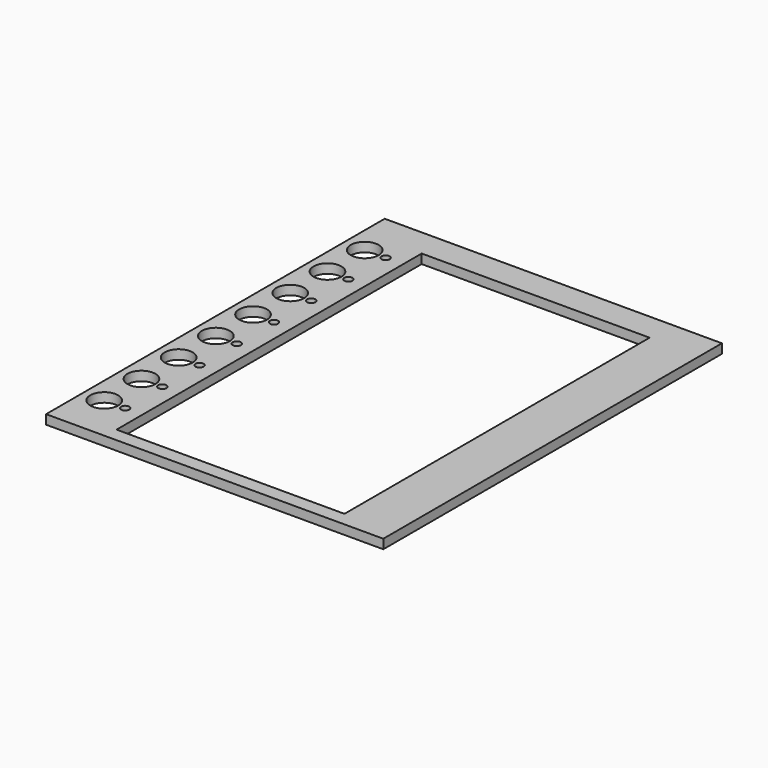
from build123d import *

# Parameters (mm, degrees)
BOX_W                                = 145
BOX_H                                = 182
BOX_DEPTH                            = 4
BOX001_W                             = 98
BOX001_H                             = 164
BOX001_DEPTH                         = 5
CYLINDER_R                           = 6
CYLINDER_DEPTH                       = 12
CYLINDER001_R                        = 1.75
CYLINDER001_DEPTH                    = 12
LINEARPATTERN_COUNT                  = 8
LINEARPATTERN_PITCH                  = 20
CYLINDER003_R                        = 1
CYLINDER003_DEPTH                    = 6
CYLINDER003_LINEARPATTERN004_2_R     = 1
CYLINDER003_LINEARPATTERN004_2_DEPTH = 6
LINEARPATTERN005_COUNT               = 2
LINEARPATTERN005_PITCH               = 170


with BuildPart() as part:
    # Box → Box (join)
    with BuildSketch(Plane.XY):
        with Locations((72.5, 91)):
            Rectangle(BOX_W, BOX_H)
    extrude(amount=BOX_DEPTH)

    # Box001 → Box001 (cut)
    with BuildSketch(Plane(origin=(25.5, 6, -1), x_dir=(1, 0, 0), z_dir=(0, 0, 1))):
        with Locations((49, 82)):
            Rectangle(BOX001_W, BOX001_H)
    extrude(amount=BOX001_DEPTH, mode=Mode.SUBTRACT)

    # Cylinder → Cylinder (cut)
    with BuildSketch(Plane(origin=(9, 20, -7), x_dir=(1, 0, 0), z_dir=(0, 0, 1))):
        Circle(CYLINDER_R)
    cylinder = extrude(amount=CYLINDER_DEPTH, mode=Mode.SUBTRACT)

    # Cylinder001 → Cylinder001 (cut)
    with BuildSketch(Plane(origin=(18, 20, -7), x_dir=(1, 0, 0), z_dir=(0, 0, 1))):
        Circle(CYLINDER001_R)
    cylinder001 = extrude(amount=CYLINDER001_DEPTH, mode=Mode.SUBTRACT)

    # LinearPattern: Cylinder, Cylinder001 ×8
    with Locations(*[(0, i * LINEARPATTERN_PITCH, 0) for i in range(1, LINEARPATTERN_COUNT)]):
        add(cylinder, mode=Mode.SUBTRACT)
        add(cylinder001, mode=Mode.SUBTRACT)

    # Cylinder003 → Cylinder003 (cut)
    with BuildSketch(Plane(origin=(5, 5, -3), x_dir=(1, 0, 0), z_dir=(0, 0, 1))):
        Circle(CYLINDER003_R)
    cylinder003 = extrude(amount=CYLINDER003_DEPTH, mode=Mode.SUBTRACT)

    # Cylinder003 LinearPattern004 2 → Cylinder003 LinearPattern004 2 (cut)
    with BuildSketch(Plane(origin=(138, 5, -3), x_dir=(1, 0, 0), z_dir=(0, 0, 1))):
        Circle(CYLINDER003_LINEARPATTERN004_2_R)
    cylinder003_linearpattern004_2 = extrude(amount=CYLINDER003_LINEARPATTERN004_2_DEPTH, mode=Mode.SUBTRACT)

    # LinearPattern005: Cylinder003, Cylinder003 LinearPattern004 2 ×2
    with Locations(*[(0, i * LINEARPATTERN005_PITCH, 0) for i in range(1, LINEARPATTERN005_COUNT)]):
        add(cylinder003, mode=Mode.SUBTRACT)
        add(cylinder003_linearpattern004_2, mode=Mode.SUBTRACT)


with BuildPart() as part_1:
    # Body placement: moved
    add(part.part.moved(Location((0, 0, 4))))


solid = part_1.part
